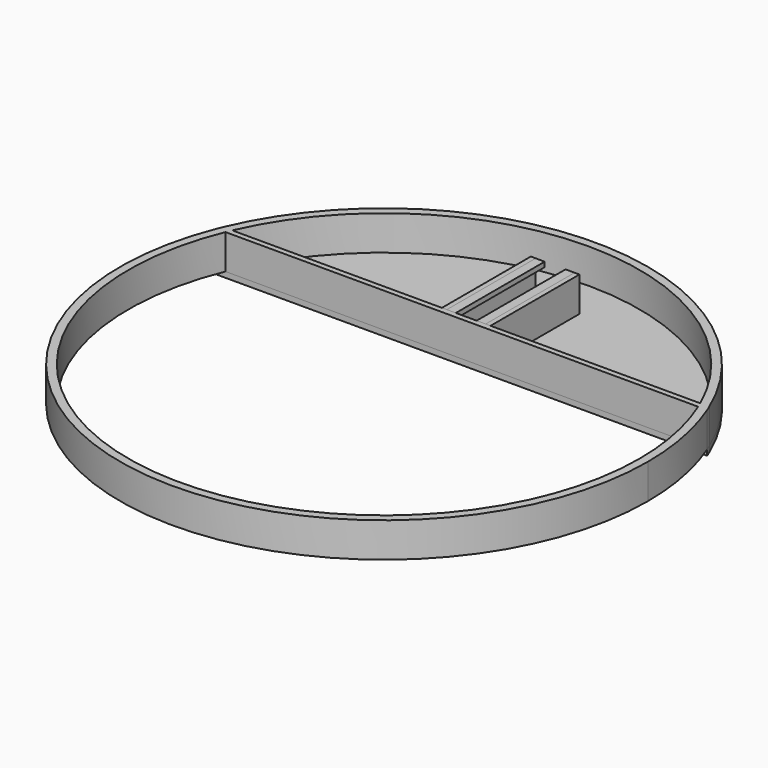
from build123d import *

# Parameters (mm, degrees)
F1_DEPTH = 5
F0_W     = 0.7
F0_H     = 16
F2_DEPTH = 0.8
F3_DEPTH = 0.7
F4_DEPTH = 5
F5_W     = 16
F5_H     = 0.7
F7_DEPTH = 1.3
F6_W     = 16
F6_H     = 0.7
F8_DEPTH = 1.3


with BuildPart() as f1:
    # F0 (on Top) → F1 (new body)
    with BuildSketch(Plane.XY):
        with BuildLine():
            ThreePointArc((33.6933227806, 14.7986485869), (33.8657643047, 14.3996530533), (34.0334811287, 13.9986485869))
            Line((34.0334811287, 13.9986485869), (34.608, 13.9986485869))
            Line((34.608, 13.9986485869), (35.3275789963, 13.9986485869))
            ThreePointArc((35.3275789963, 13.9986485869), (35.1660644922, 14.3995801373), (35, 14.7986485869))
            Line((35, 14.7986485869), (33.6933227806, 14.7986485869))
        make_face()
        with BuildLine():
            ThreePointArc((-33.6933227806, 14.7986485869), (0, 36.8), (33.6933227806, 14.7986485869))
            Line((33.6933227806, 14.7986485869), (35, 14.7986485869))
            ThreePointArc((35, 14.7986485869), (0, 38), (-35, 14.7986485869))
            Line((-35, 14.7986485869), (-33.6933227806, 14.7986485869))
        make_face()
        with BuildLine():
            Line((-34.608, 13.9986485869), (-34.0334811287, 13.9986485869))
            ThreePointArc((-34.0334811287, 13.9986485869), (-33.8657643047, 14.3996530533), (-33.6933227806, 14.7986485869))
            Line((-33.6933227806, 14.7986485869), (-35, 14.7986485869))
            ThreePointArc((-35, 14.7986485869), (-35.1660644922, 14.3995801373), (-35.3275789963, 13.9986485869))
            Line((-35.3275789963, 13.9986485869), (-34.608, 13.9986485869))
        make_face()
        with BuildLine():
            ThreePointArc((34.0334811287, 13.9986485869), (36.101745841, 7.1347002202), (36.8, 0))
            ThreePointArc((36.8, 0), (-7.1347002202, -36.101745841), (-34.0334811287, 13.9986485869))
            Line((-34.0334811287, 13.9986485869), (-34.608, 13.9986485869))
            Line((-34.608, 13.9986485869), (-35.3275789963, 13.9986485869))
            ThreePointArc((-35.3275789963, 13.9986485869), (-7.1257279678, -37.3259159423), (38, 0))
            ThreePointArc((38, 0), (37.3259159423, 7.1257279678), (35.3275789963, 13.9986485869))
            Line((35.3275789963, 13.9986485869), (34.608, 13.9986485869))
            Line((34.608, 13.9986485869), (34.0334811287, 13.9986485869))
        make_face()
        with BuildLine():
            ThreePointArc((-33.6933227806, 14.7986485869), (0, 36.8), (33.6933227806, 14.7986485869))
            Line((33.6933227806, 14.7986485869), (35, 14.7986485869))
            ThreePointArc((35, 14.7986485869), (0, 38), (-35, 14.7986485869))
            Line((-35, 14.7986485869), (-33.6933227806, 14.7986485869))
        make_face()
        with BuildLine():
            Line((-34.0334811287, 13.9986485869), (34.0334811287, 13.9986485869))
            ThreePointArc((34.0334811287, 13.9986485869), (33.8657643047, 14.3996530533), (33.6933227806, 14.7986485869))
            Line((33.6933227806, 14.7986485869), (3.5, 14.7986485869))
            Line((3.5, 14.7986485869), (2.8, 14.7986485869))
            Line((2.8, 14.7986485869), (0, 14.7986485869))
            Line((0, 14.7986485869), (-2.8, 14.7986485869))
            Line((-2.8, 14.7986485869), (-3.5, 14.7986485869))
            Line((-3.5, 14.7986485869), (-33.6933227806, 14.7986485869))
            ThreePointArc((-33.6933227806, 14.7986485869), (-33.8657643047, 14.3996530533), (-34.0334811287, 13.9986485869))
        make_face()
        with BuildLine():
            ThreePointArc((33.6933227806, 14.7986485869), (33.8657643047, 14.3996530533), (34.0334811287, 13.9986485869))
            Line((34.0334811287, 13.9986485869), (34.608, 13.9986485869))
            Line((34.608, 13.9986485869), (35.3275789963, 13.9986485869))
            ThreePointArc((35.3275789963, 13.9986485869), (35.1660644922, 14.3995801373), (35, 14.7986485869))
            Line((35, 14.7986485869), (33.6933227806, 14.7986485869))
        make_face()
        with BuildLine():
            Line((-34.608, 13.9986485869), (-34.0334811287, 13.9986485869))
            ThreePointArc((-34.0334811287, 13.9986485869), (-33.8657643047, 14.3996530533), (-33.6933227806, 14.7986485869))
            Line((-33.6933227806, 14.7986485869), (-35, 14.7986485869))
            ThreePointArc((-35, 14.7986485869), (-35.1660644922, 14.3995801373), (-35.3275789963, 13.9986485869))
            Line((-35.3275789963, 13.9986485869), (-34.608, 13.9986485869))
        make_face()
        with BuildLine():
            ThreePointArc((34.0334811287, 13.9986485869), (36.101745841, 7.1347002202), (36.8, 0))
            ThreePointArc((36.8, 0), (-7.1347002202, -36.101745841), (-34.0334811287, 13.9986485869))
            Line((-34.0334811287, 13.9986485869), (-34.608, 13.9986485869))
            Line((-34.608, 13.9986485869), (-35.3275789963, 13.9986485869))
            ThreePointArc((-35.3275789963, 13.9986485869), (-7.1257279678, -37.3259159423), (38, 0))
            ThreePointArc((38, 0), (37.3259159423, 7.1257279678), (35.3275789963, 13.9986485869))
            Line((35.3275789963, 13.9986485869), (34.608, 13.9986485869))
            Line((34.608, 13.9986485869), (34.0334811287, 13.9986485869))
        make_face()
    extrude(amount=F1_DEPTH)


with BuildPart() as f2:
    # F0 (on Top) → F2 (new body)
    with BuildSketch(Plane.XY):
        with BuildLine():
            Line((3.5, 14.7986485869), (33.6933227806, 14.7986485869))
            ThreePointArc((33.6933227806, 14.7986485869), (0, 36.8), (-33.6933227806, 14.7986485869))
            Line((-33.6933227806, 14.7986485869), (-3.5, 14.7986485869))
            Line((-3.5, 14.7986485869), (-3.5, 30.7986485869))
            Line((-3.5, 30.7986485869), (-2.8, 30.7986485869))
            Line((-2.8, 30.7986485869), (2.8, 30.7986485869))
            Line((2.8, 30.7986485869), (3.5, 30.7986485869))
            Line((3.5, 30.7986485869), (3.5, 14.7986485869))
        make_face()
        with BuildLine():
            ThreePointArc((-33.6933227806, 14.7986485869), (0, 36.8), (33.6933227806, 14.7986485869))
            Line((33.6933227806, 14.7986485869), (35, 14.7986485869))
            ThreePointArc((35, 14.7986485869), (0, 38), (-35, 14.7986485869))
            Line((-35, 14.7986485869), (-33.6933227806, 14.7986485869))
        make_face()
        with BuildLine():
            Line((-34.0334811287, 13.9986485869), (34.0334811287, 13.9986485869))
            ThreePointArc((34.0334811287, 13.9986485869), (33.8657643047, 14.3996530533), (33.6933227806, 14.7986485869))
            Line((33.6933227806, 14.7986485869), (3.5, 14.7986485869))
            Line((3.5, 14.7986485869), (2.8, 14.7986485869))
            Line((2.8, 14.7986485869), (0, 14.7986485869))
            Line((0, 14.7986485869), (-2.8, 14.7986485869))
            Line((-2.8, 14.7986485869), (-3.5, 14.7986485869))
            Line((-3.5, 14.7986485869), (-33.6933227806, 14.7986485869))
            ThreePointArc((-33.6933227806, 14.7986485869), (-33.8657643047, 14.3996530533), (-34.0334811287, 13.9986485869))
        make_face()
        Polygon((0, 14.7986485869), (2.8, 14.7986485869), (2.8, 30.7986485869), (-2.8, 30.7986485869), (-2.8, 14.7986485869), align=None)
        with Locations((3.15, 22.7986485869)):
            Rectangle(F0_W, F0_H)
        with Locations((-3.15, 22.7986485869)):
            Rectangle(F0_W, F0_H)
        with BuildLine():
            ThreePointArc((33.6933227806, 14.7986485869), (33.8657643047, 14.3996530533), (34.0334811287, 13.9986485869))
            Line((34.0334811287, 13.9986485869), (34.608, 13.9986485869))
            Line((34.608, 13.9986485869), (35.3275789963, 13.9986485869))
            ThreePointArc((35.3275789963, 13.9986485869), (35.1660644922, 14.3995801373), (35, 14.7986485869))
            Line((35, 14.7986485869), (33.6933227806, 14.7986485869))
        make_face()
        with BuildLine():
            Line((-34.608, 13.9986485869), (-34.0334811287, 13.9986485869))
            ThreePointArc((-34.0334811287, 13.9986485869), (-33.8657643047, 14.3996530533), (-33.6933227806, 14.7986485869))
            Line((-33.6933227806, 14.7986485869), (-35, 14.7986485869))
            ThreePointArc((-35, 14.7986485869), (-35.1660644922, 14.3995801373), (-35.3275789963, 13.9986485869))
            Line((-35.3275789963, 13.9986485869), (-34.608, 13.9986485869))
        make_face()
    extrude(amount=-F2_DEPTH)


with BuildPart() as f3:
    # F0 (on Top) → F3 (new body)
    with BuildSketch(Plane.XY):
        Polygon((0, 14.7986485869), (2.8, 14.7986485869), (2.8, 30.7986485869), (-2.8, 30.7986485869), (-2.8, 14.7986485869), align=None)
    extrude(amount=F3_DEPTH)


with BuildPart() as f4:
    # F0 (on Top) → F4 (new body)
    with BuildSketch(Plane.XY):
        with Locations((-3.15, 22.7986485869)):
            Rectangle(F0_W, F0_H)
    extrude(amount=F4_DEPTH)


with BuildPart() as f4b:
    # F0 (on Top) → F4, piece 2 (new body)
    with BuildSketch(Plane.XY):
        with Locations((3.15, 22.7986485869)):
            Rectangle(F0_W, F0_H)
    extrude(amount=F4_DEPTH)


with BuildPart() as f7:
    # F5 (on face) → F7 (new body)
    with BuildSketch(Plane(origin=(2.8, 0, 0), x_dir=(0, -1, 0), z_dir=(-1, 0, 0))):
        with Locations((-22.7986485869, 4.65)):
            Rectangle(F5_W, F5_H)
    extrude(amount=F7_DEPTH)


with BuildPart() as f8:
    # F6 (on face) → F8 (new body)
    with BuildSketch(Plane.YZ.offset(-2.8)):
        with Locations((22.7986485869, 4.65)):
            Rectangle(F6_W, F6_H)
    extrude(amount=F8_DEPTH)


solid = Compound([f1.part, f2.part, f3.part, f4.part, f4b.part, f7.part, f8.part])
